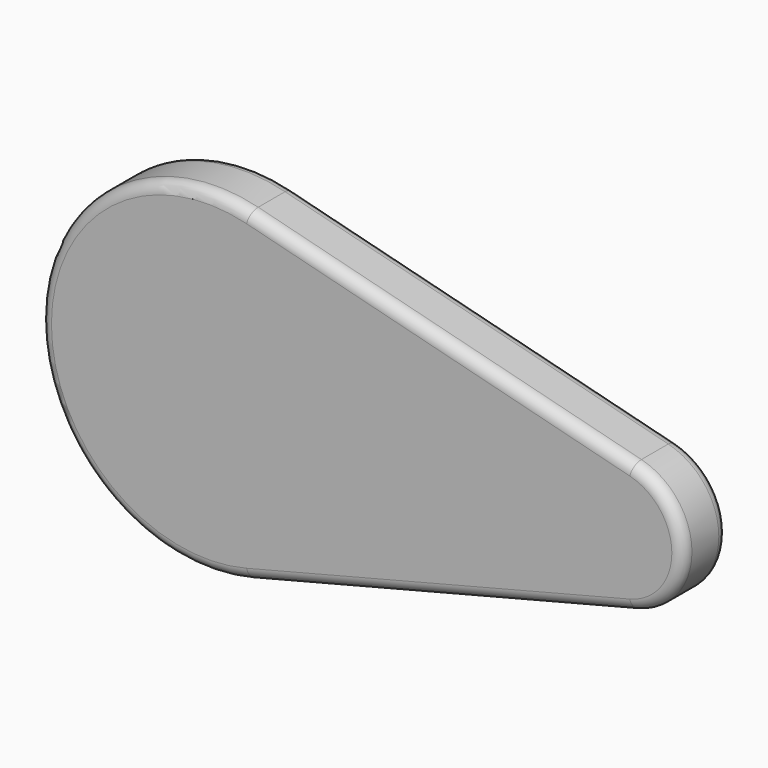
from build123d import *

# Parameters (mm, degrees)
PAD_DEPTH = 10
FILLET_R  = 2


with BuildPart() as part:
    # Sketch → Pad (new body)
    with BuildSketch(Plane.XZ):
        with BuildLine():
            Line((-29.102787, 29.073721), (39.458904, 11.629483))
            ThreePointArc((39.458904, -11.629483), (48.5, 0), (39.458904, 11.629483))
            Line((-29.102787, -29.073721), (39.458904, -11.629483))
            ThreePointArc((-29.102787, 29.073721), (-66.5, 0), (-29.102787, -29.073721))
        make_face()
    extrude(amount=PAD_DEPTH)

    # Fillet
    fillet_edges = [part.edges().sort_by_distance(p)[0] for p in [
        (-66.5, -10, 0),
        (5.178059, -10, 20.351602),
        (48.5, -10, 0),
        (5.178059, -10, -20.351602),
        (-66.5, 0, 0),
        (5.178059, 0, 20.351602),
        (48.5, 0, 0),
        (5.178059, 0, -20.351602),
    ]]
    fillet(fillet_edges, radius=FILLET_R)


solid = part.part
